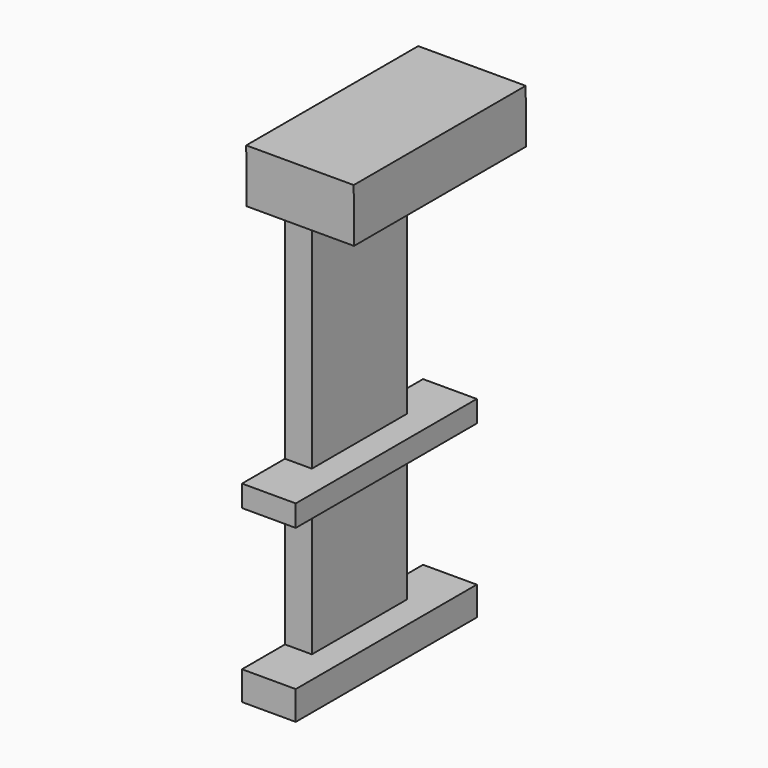
from build123d import *

# Parameters (mm, degrees)
F0_W     = 28.07053
F0_H     = 57.15
F0_H_2   = 33.528
F1_DEPTH = 6.35
F2_DEPTH = 25.4
F3_DEPTH = 12.7


with BuildPart() as f1:
    # F0 (on Right) → F1 (new body)
    with BuildSketch(Plane.YZ):
        with Locations((-4.20029, 32.724945)):
            Rectangle(F0_W, F0_H)
        with Locations((-4.20029, -17.71369)):
            Rectangle(F0_W, F0_H_2)
    extrude(amount=F1_DEPTH)

    # F0 (on Right) → F2 (join)
    with BuildSketch(Plane.YZ):
        Polygon((-29.60029, 61.299945), (-18.235555, 61.299945), (9.834975, 61.299945), (21.19971, 61.299945), (21.109331, 73.999623), (-29.690669, 73.999623), align=None)
    extrude(amount=F2_DEPTH)


with BuildPart() as f3:
    # F0 (on Right) → F3 (new body)
    with BuildSketch(Plane.YZ):
        Polygon((9.834975, 4.149945), (-18.235555, 4.149945), (-30.935555, 4.149945), (-30.935555, -0.94969), (-18.235555, -0.94969), (9.834975, -0.94969), (22.534975, -0.94969), (22.534975, 4.149945), align=None)
        Polygon((9.834975, -34.47769), (-18.235555, -34.47769), (-30.935555, -34.47769), (-30.935555, -41.305362), (22.534975, -41.305362), (22.534975, -34.47769), align=None)
    extrude(amount=F3_DEPTH)


solid = Compound([f1.part, f3.part])
